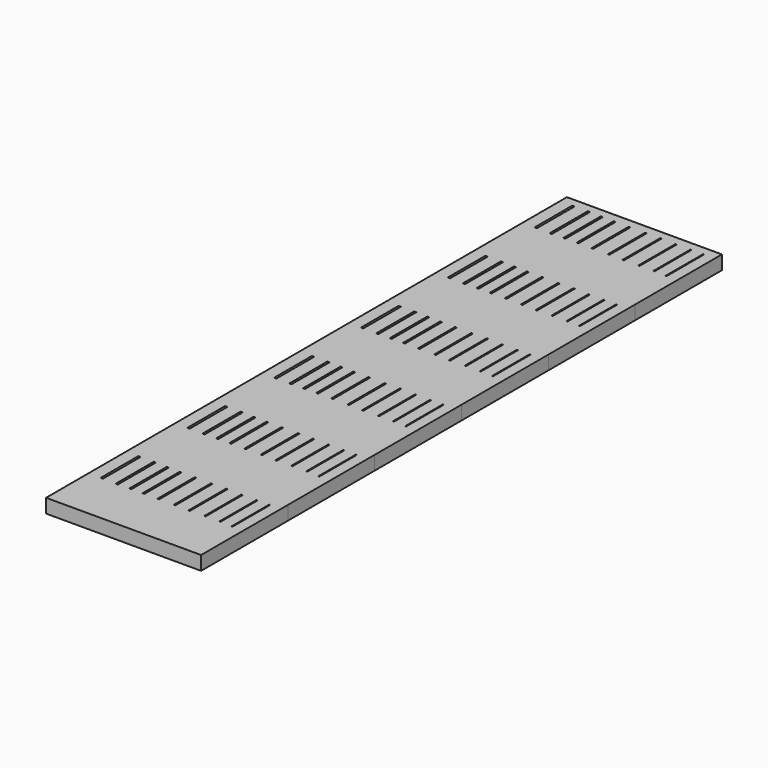
from build123d import *

# Parameters (mm, degrees)
SKETCH_W            = 0.07
SKETCH_H            = 2.996778
SKETCH_W_2          = 0.08
SKETCH_W_3          = 0.1
SKETCH_W_4          = 0.11
SKETCH_W_5          = 0.12
SKETCH_W_6          = 0.06
SKETCH_H_2          = 3.032581
SKETCH_W_7          = 0.09
SKETCH_H_3          = 3.051825
SKETCH_W_8          = 0.13
SKETCH_H_4          = 3.022511
SKETCH_W_9          = 0.14
SKETCH_H_5          = 3.072561
SKETCH_W_10         = 0.15
SKETCH_H_6          = 3.037221
PAD_DEPTH           = 0.9
LINEARPATTERN_COUNT = 6
LINEARPATTERN_PITCH = 7


with BuildPart() as part:
    # Sketch → Pad (new body)
    with BuildSketch(Plane.XY):
        Polygon((0, 0), (10.000051, 0), (10, 7), (0, 7), align=None)
        with Locations((8.466199, 4.923119)):
            Rectangle(SKETCH_W, SKETCH_H, mode=Mode.SUBTRACT)
        with Locations((7.506261, 4.923119)):
            Rectangle(SKETCH_W_2, SKETCH_H, mode=Mode.SUBTRACT)
        with Locations((5.552293, 4.923119)):
            Rectangle(SKETCH_W_3, SKETCH_H, mode=Mode.SUBTRACT)
        with Locations((4.502517, 4.923119)):
            Rectangle(SKETCH_W_4, SKETCH_H, mode=Mode.SUBTRACT)
        with Locations((3.544156, 4.923119)):
            Rectangle(SKETCH_W_5, SKETCH_H, mode=Mode.SUBTRACT)
        with Locations((9.273848, 4.923119)):
            Rectangle(SKETCH_W_6, SKETCH_H_2, mode=Mode.SUBTRACT)
        with Locations((6.507546, 4.92312)):
            Rectangle(SKETCH_W_7, SKETCH_H_3, mode=Mode.SUBTRACT)
        with Locations((2.707546, 4.923119)):
            Rectangle(SKETCH_W_8, SKETCH_H_4, mode=Mode.SUBTRACT)
        with Locations((1.84982, 4.923119)):
            Rectangle(SKETCH_W_9, SKETCH_H_5, mode=Mode.SUBTRACT)
        with Locations((0.864604, 4.92312)):
            Rectangle(SKETCH_W_10, SKETCH_H_6, mode=Mode.SUBTRACT)
    pad = extrude(amount=PAD_DEPTH)

    # LinearPattern: Pad ×6
    with Locations(*[(0, i * LINEARPATTERN_PITCH, 0) for i in range(1, LINEARPATTERN_COUNT)]):
        add(pad)


solid = part.part
